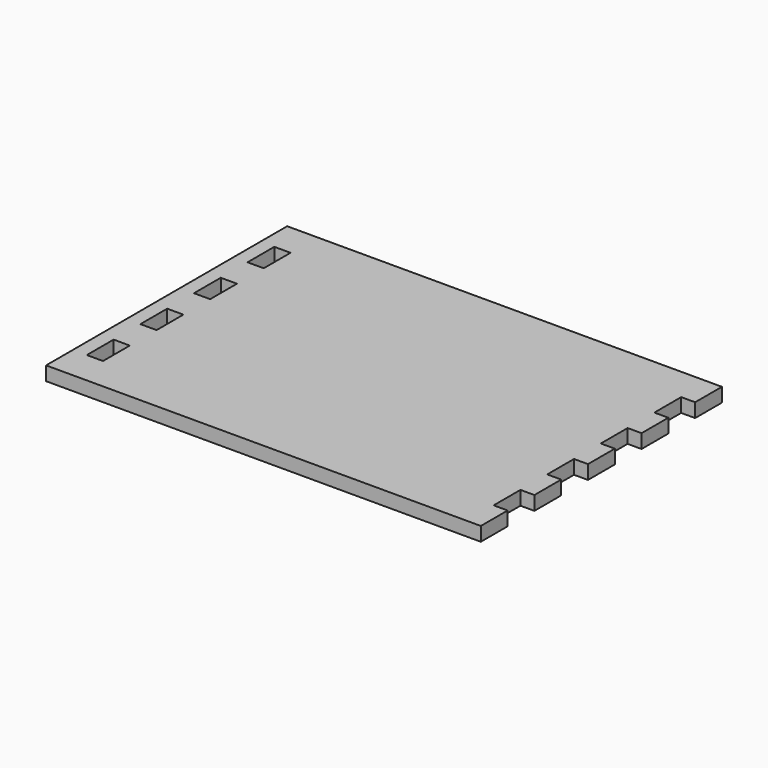
from build123d import *

# Parameters (mm, degrees)
F0_W     = 7.366
F0_H     = 15.24
F1_DEPTH = 6.35


with BuildPart() as f1:
    # F0 (on Top) → F1 (new body)
    with BuildSketch(Plane.XY):
        Polygon((108.494151, 76.2), (-69.305849, 76.2), (-76.671849, 76.2), (-83.021849, 76.2), (-83.021849, -60.96), (-76.671849, -60.96), (-69.305849, -60.96), (108.459485, -60.96), (114.844151, -60.96), (114.844151, -45.72), (108.494151, -45.72), (108.494151, -30.48), (114.844151, -30.48), (114.844151, -15.24), (108.494151, -15.24), (108.494151, 0), (114.844151, 0), (114.844151, 15.24), (108.494151, 15.24), (108.494151, 30.48), (114.844151, 30.48), (114.844151, 45.72), (108.494151, 45.72), (108.494151, 60.96), (114.844151, 60.96), (114.844151, 76.2), align=None)
        with Locations((-72.988849, -38.1)):
            Rectangle(F0_W, F0_H, mode=Mode.SUBTRACT)
        with Locations((-72.988849, -7.62)):
            Rectangle(F0_W, F0_H, mode=Mode.SUBTRACT)
        with Locations((-72.988849, 22.86)):
            Rectangle(F0_W, F0_H, mode=Mode.SUBTRACT)
        with Locations((-72.988849, 53.34)):
            Rectangle(F0_W, F0_H, mode=Mode.SUBTRACT)
    extrude(amount=F1_DEPTH)


solid = f1.part
